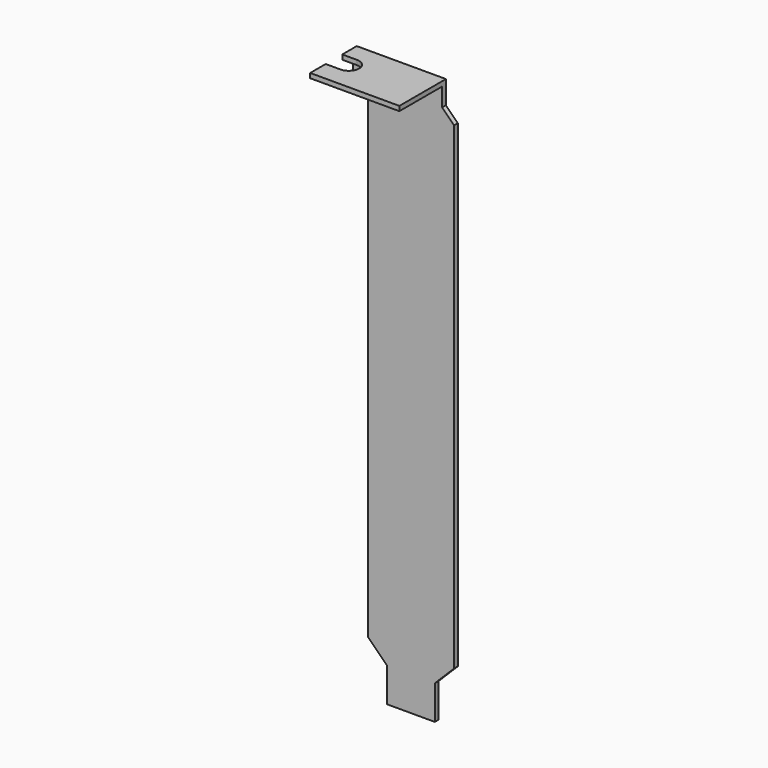
from build123d import *

# Parameters (mm, degrees)
F2_DEPTH = 1
F4_DEPTH = 1


with BuildPart() as f2:
    # F1 (on Front) → F2 (new body)
    with BuildSketch(Plane.XZ):
        Polygon((-5.095, 7.27), (-5.095, 0), (5.095, 0), (5.095, 7.27), (9.21, 11.385), (9.21, 113.54), (6.67, 116.08), (6.67, 120.02), (6.67, 121.02), (-12.38, 121.02), (-12.38, 120.02), (-12.38, 117.1), (-9.21, 113.93), (-9.21, 11.385), align=None)
    extrude(amount=-F2_DEPTH)

    # F3 (on face) → F4 (join)
    with BuildSketch(Plane.XY.offset(121.02)):
        with BuildLine():
            Line((6.67, 0), (-12.38, 0))
            Line((-12.38, 0), (-12.38, -2.87))
            Line((-12.38, -2.87), (-9.21, -2.87))
            ThreePointArc((-9.21, -2.87), (-7, -5.08), (-9.21, -7.29))
            Line((-9.21, -7.29), (-12.38, -7.29))
            Line((-12.38, -7.29), (-12.38, -11.43))
            Line((-12.38, -11.43), (6.67, -11.43))
            Line((6.67, -11.43), (6.67, 0))
        make_face()
    extrude(amount=-F4_DEPTH)


solid = f2.part
